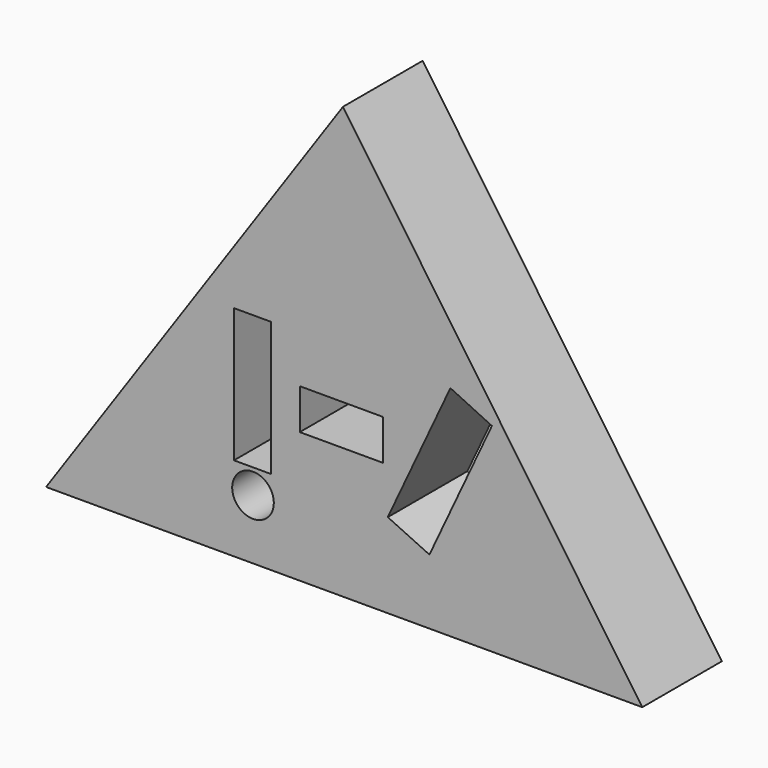
from build123d import *

# Parameters (mm, degrees)
F0_R     = 5.310328
F0_W     = 9.508142
F0_H     = 34.190733
F0_W_2   = 21.241593
F0_H_2   = 10.317345
F1_DEPTH = 25.4


with BuildPart() as f1:
    # F0 (on Front) → F1 (new body)
    with BuildSketch(Plane.XZ):
        Polygon((76.368585, -40.055577), (0, 69.996111), (-75.761683, -40.055577), align=None)
        with Locations((-22.961151, -24.750333)):
            Circle(F0_R, mode=Mode.SUBTRACT)
        with Locations((-23.062301, -1.383293)):
            Rectangle(F0_W, F0_H, mode=Mode.SUBTRACT)
        with Locations((-0.4046, -1.517257)):
            Rectangle(F0_W_2, F0_H_2, mode=Mode.SUBTRACT)
        Polygon((11.430002, -18.47866), (27.411768, 15.712073), (37.997249, 10.662371), (22.054509, -23.444871), align=None, mode=Mode.SUBTRACT)
    extrude(amount=F1_DEPTH)


solid = f1.part
